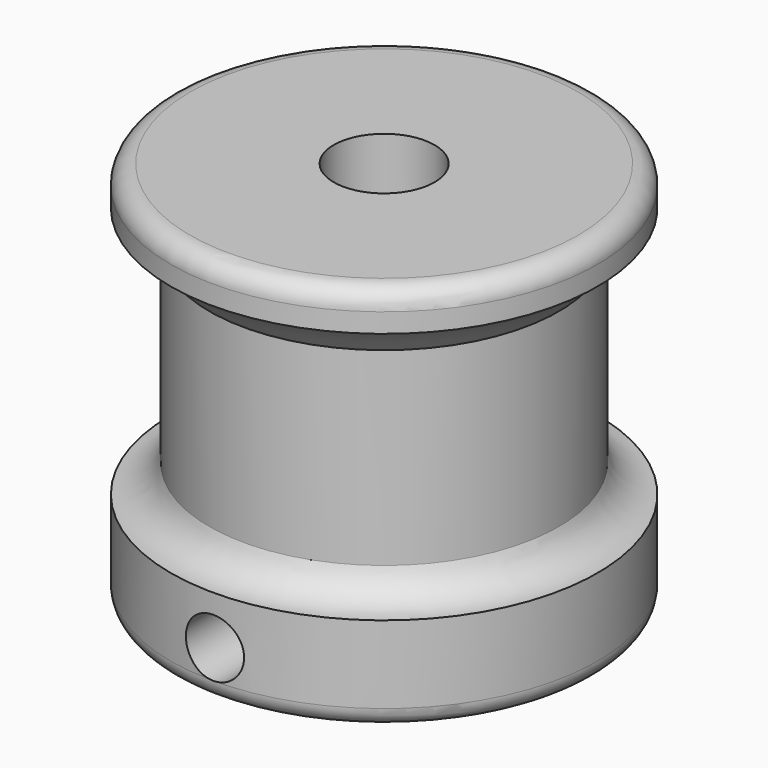
from build123d import *

# Parameters (mm, degrees)
F2_R     = 2.6
F3_DEPTH = 20
F5_R     = 1.5
F6_DEPTH = 10
F7_R     = 1


with BuildPart() as f1:
    # F0 (on Front) → F1 (revolve)
    with BuildSketch(Plane.XZ):
        with BuildLine():
            Line((-11, 0), (0, 0))
            Line((0, 0), (0, 20))
            Line((0, 20), (-11, 20))
            Line((-11, 20), (-11, 18))
            ThreePointArc((-11, 18), (-9.931221, 17.186703), (-9, 16.218938))
            Line((-9, 16.218938), (-9, 6.446878))
            ThreePointArc((-9, 6.446878), (-9.763254, 5.396188), (-11, 5))
            Line((-11, 5), (-11, 0))
        make_face()
    revolve(axis=Axis((0, 0, 10), (0, 0, -1)))

    # F2 (on face) → F3 (cut)
    with BuildSketch(Plane.XY.offset(20)):
        Circle(F2_R)
    extrude(amount=-F3_DEPTH, mode=Mode.SUBTRACT)

    # F5 (on offset) → F6 (cut)
    with BuildSketch(Plane.XZ.offset(11)):
        with Locations((0, 2.5)):
            Circle(F5_R)
    extrude(amount=-F6_DEPTH, mode=Mode.SUBTRACT)

    # F7
    f7_edges = [f1.edges().sort_by_distance(p)[0] for p in [
        (11, 0, 20),
        (11, 0, 0),
    ]]
    fillet(f7_edges, radius=F7_R)


solid = f1.part
